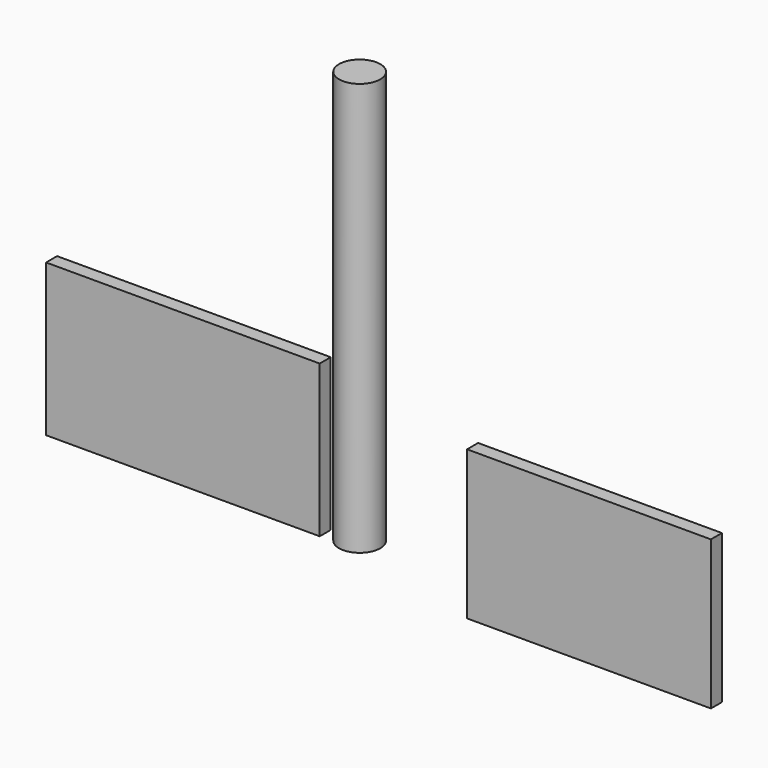
from build123d import *

# Parameters (mm, degrees)
F0_W     = 50.510075
F0_H     = 28.073099
F1_DEPTH = 2.54
F2_W     = 45.005768
F2_H     = 27.480781
F3_DEPTH = 2.54
F4_R     = 3.81
F5_DEPTH = 76.2


with BuildPart() as f1:
    # F0 (on Front) → F1 (new body)
    with BuildSketch(Plane.XZ):
        with Locations((-30.597454, 14.036549)):
            Rectangle(F0_W, F0_H)
    extrude(amount=F1_DEPTH)


with BuildPart() as f3:
    # F2 (on Front) → F3 (new body)
    with BuildSketch(Plane.XZ):
        with Locations((44.358209, 9.243501)):
            Rectangle(F2_W, F2_H)
    extrude(amount=F3_DEPTH)


with BuildPart() as f5:
    # F4 (on Top) → F5 (new body)
    with BuildSketch(Plane.XY):
        Circle(F4_R)
    extrude(amount=F5_DEPTH)


solid = Compound([f1.part, f3.part, f5.part])
